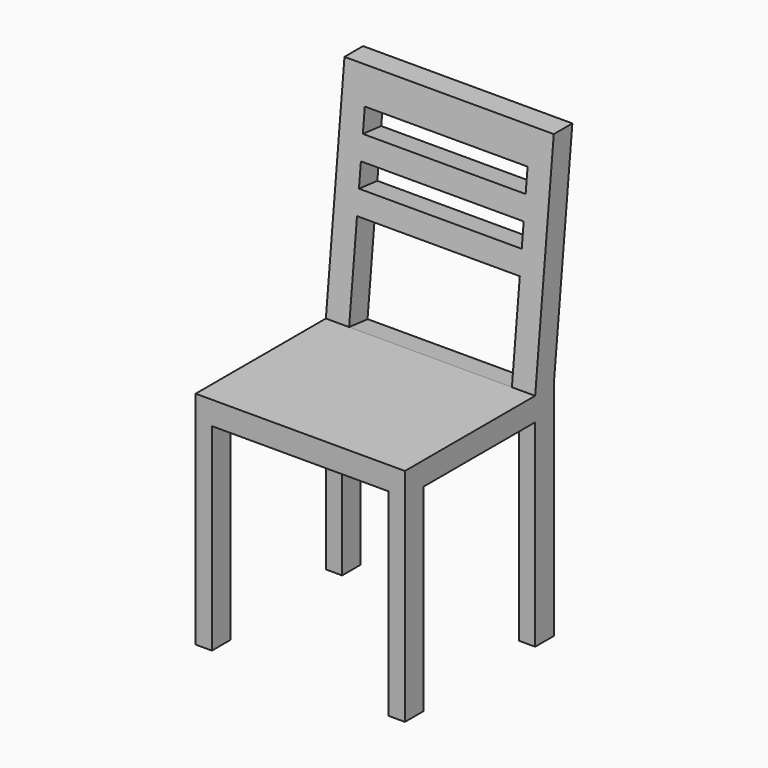
from build123d import *

# Parameters (mm, degrees)
F0_W     = 450
F0_H     = 450
F1_DEPTH = 950
F2_W     = 50
F2_H     = 50
F2_H_2   = 425
F2_W_2   = 300
F3_DEPTH = 450.001
F4_W     = 380
F4_H     = 425
F5_DEPTH = 450.001
F6_W     = 350
F6_H     = 202.6243293636
F6_H_2   = 50
F7_DEPTH = 149.1768179382


with BuildPart() as f1:
    # F0 (on Top) → F1 (new body)
    with BuildSketch(Plane.XY):
        Rectangle(F0_W, F0_H)
    extrude(amount=F1_DEPTH)

    # F2 (on face) → F3 (cut, through all)
    with BuildSketch(Plane.YZ.offset(225)):
        Polygon((-225, 475), (125, 475), (175, 950), (-225, 950), align=None)
        Polygon((175, 475), (225, 475), (225, 950), align=None)
        with Locations((200, 450)):
            Rectangle(F2_W, F2_H)
        with Locations((200, 212.5)):
            Rectangle(F2_W, F2_H_2)
        with Locations((-25, 212.5)):
            Rectangle(F2_W_2, F2_H_2)
    extrude(amount=-F3_DEPTH, mode=Mode.SUBTRACT)

    # F4 (on face) → F5 (cut, through all)
    with BuildSketch(Plane.XZ.offset(225)):
        with Locations((0, 212.5)):
            Rectangle(F4_W, F4_H)
    extrude(amount=-F5_DEPTH, mode=Mode.SUBTRACT)

    # F6 (on face) → F7 (cut, through all)
    with BuildSketch(Plane(origin=(0, 74.1780821918, -7.8082191781), x_dir=(1, 0, 0), z_dir=(0, -0.9945054529, 0.1046847845))):
        with Locations((0, 586.7878528842)):
            Rectangle(F6_W, F6_H)
        with Locations((0, 763.100017566)):
            Rectangle(F6_W, F6_H_2)
        with Locations((0, 863.100017566)):
            Rectangle(F6_W, F6_H_2)
    extrude(amount=-F7_DEPTH, mode=Mode.SUBTRACT)


solid = f1.part
